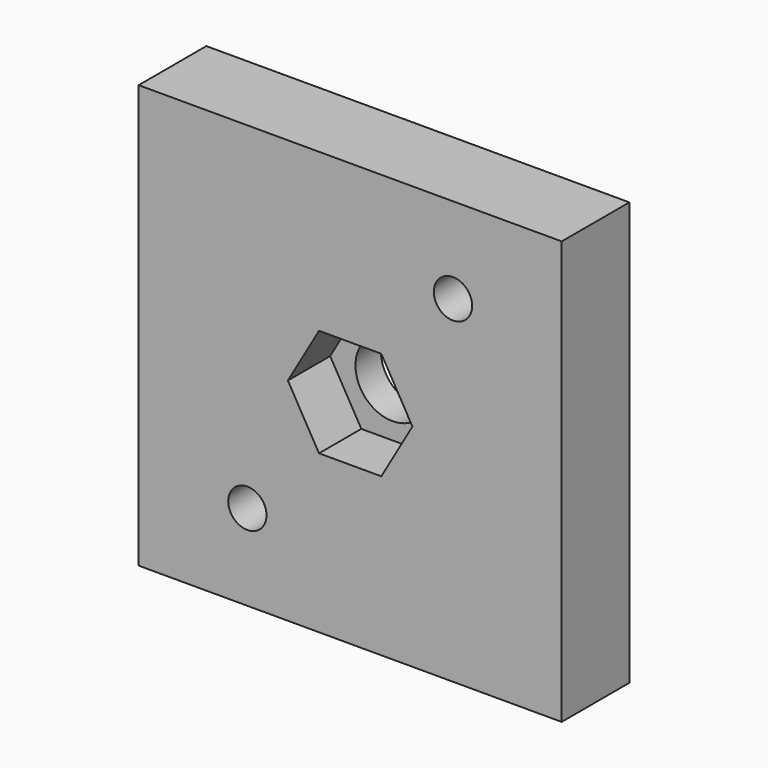
from build123d import *

# Parameters (mm, degrees)
F0_W           = 25.4
F0_H           = 25.4
F1_DEPTH       = 5.08
F3_D           = 2.3
F3_CSINK_D     = 5
F3_CSINK_ANGLE = 90
F5_DEPTH       = 3.175
F6_R           = 2.2225
F7_DEPTH       = 5.081


with BuildPart() as f1:
    # F0 (on Front) → F1 (new body)
    with BuildSketch(Plane.XZ):
        Rectangle(F0_W, F0_H)
    extrude(amount=F1_DEPTH)

    # F3 (through all)
    with Locations(Plane(origin=(0, 0, 0), x_dir=(1, 0, 0), z_dir=(0, 1, 0))):
        with Locations((6.1722, -7.5438), (-6.1722, 7.5438)):
            CounterSinkHole(F3_D / 2, F3_CSINK_D / 2, counter_sink_angle=F3_CSINK_ANGLE)

    # F4 (on face) → F5 (cut)
    with BuildSketch(Plane.XZ.offset(5.08)):
        Polygon((3.7394976935, 0), (1.8697488468, 3.2385), (-1.8697488468, 3.2385), (-3.7394976935, 0), (-1.8697488468, -3.2385), (1.8697488468, -3.2385), align=None)
    extrude(amount=-F5_DEPTH, mode=Mode.SUBTRACT)

    # F6 (on face) → F7 (cut, through all)
    with BuildSketch(Plane.XZ.offset(5.08)):
        Circle(F6_R)
    extrude(amount=-F7_DEPTH, mode=Mode.SUBTRACT)


solid = f1.part
